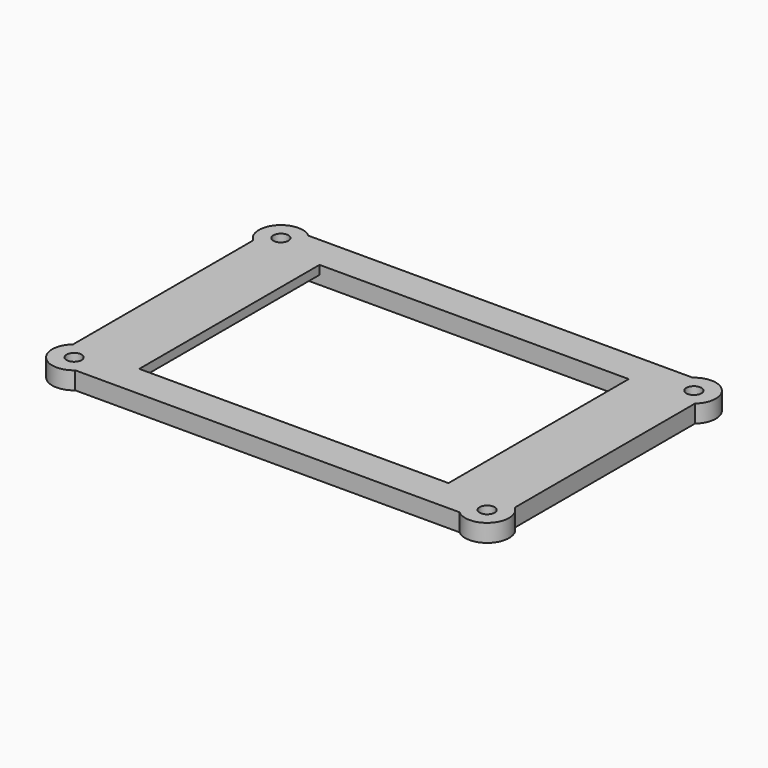
from build123d import *

# Parameters (mm, degrees)
SKETCH005_R     = 1.7
PAD003_DEPTH    = 4
SKETCH006_W     = 8.5
SKETCH006_H     = 51
POCKET002_DEPTH = 2


with BuildPart() as part:
    # Sketch005 → Pad003 (new body)
    with BuildSketch(Plane.XY):
        with BuildLine():
            Line((35, 25.5), (-35, 25.5))
            Line((-35, 25.5), (-35, 0))
            Line((-35, 0), (-50, 0))
            Line((-50, 0), (-50, 25.5))
            ThreePointArc((-43.5, 33), (-50.5, 32.5), (-50, 25.5))
            Line((-43.5, 33), (43.5, 33))
            ThreePointArc((50, 25.5), (50.5, 32.5), (43.5, 33))
            Line((50, 0), (50, 25.5))
            Line((35, 0), (50, 0))
            Line((35, 25.5), (35, 0))
        make_face()
        with Locations((-46.75, 29.25)):
            Circle(SKETCH005_R, mode=Mode.SUBTRACT)
        with Locations((46.75, 29.25)):
            Circle(SKETCH005_R, mode=Mode.SUBTRACT)
    pad003 = extrude(amount=PAD003_DEPTH)

    # Mirrored003: Pad003 across XZ
    add(pad003.mirror(Plane.XZ))

    # Sketch006 (on Face4 of Mirrored003) → Pocket002 (cut)
    with BuildSketch(Plane(origin=(0, 0, 0), x_dir=(1, 0, 0), z_dir=(0, 0, -1))):
        with Locations((-39.25, 0)):
            Rectangle(SKETCH006_W, SKETCH006_H)
    pocket002 = extrude(amount=-POCKET002_DEPTH, mode=Mode.SUBTRACT)

    # Mirrored004: Pocket002 across Sketch006 V_Axis
    add(pocket002.mirror(Plane(origin=(0, 0, 0), x_dir=(0, 0, -1), z_dir=(1, 0, 0))), mode=Mode.SUBTRACT)


with BuildPart() as part_1:
    # Body001 placement: moved
    add(part.part.moved(Location((0, 0, 35))))


solid = part_1.part
